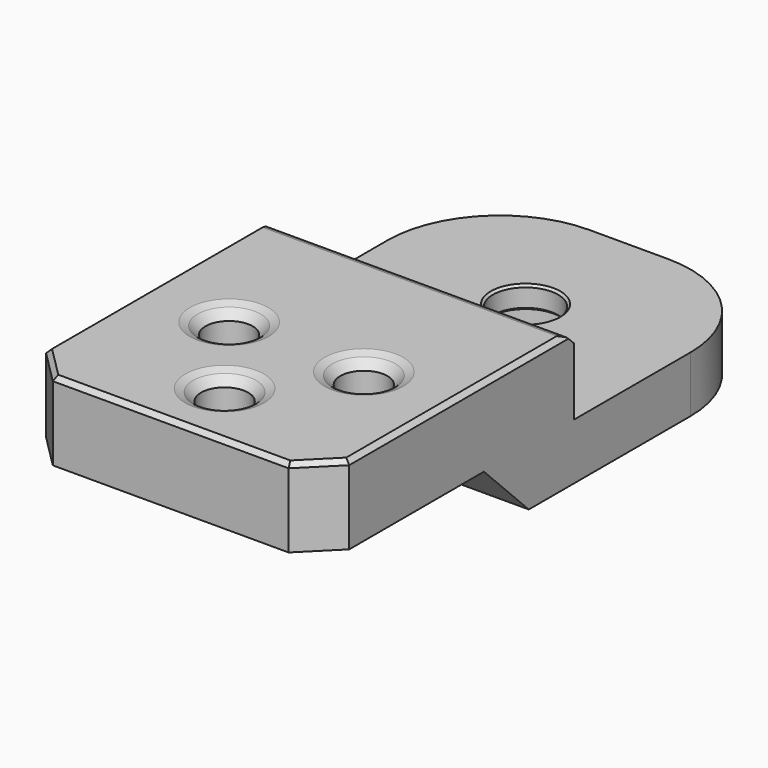
from build123d import *

# Parameters (mm, degrees)
PAD024_DEPTH    = 13.5
SKETCH067_R     = 2.9
POCKET045_DEPTH = 5.001
SKETCH068_R     = 5.5
POCKET046_DEPTH = 3
SKETCH069_R     = 2.1
POCKET047_DEPTH = 7.001
CHAMFER023_SIZE = 4.99
FILLET014_R     = 10
CHAMFER024_SIZE = 3
CHAMFER025_SIZE = 0.2
CHAMFER026_SIZE = 1
CHAMFER027_SIZE = 1
CHAMFER028_SIZE = 0.4


with BuildPart() as part:
    # Sketch066 → Pad024 (new body, symmetric)
    with BuildSketch(Plane.YZ):
        Polygon((23, 0), (0, 0), (0, 7), (-28, 7), (-28, 0), (-10, 0), (-10, -5), (23, -5), align=None)
    extrude(amount=PAD024_DEPTH, both=True)

    # Sketch067 → Pocket045 (cut, through all)
    with BuildSketch(Plane.XY):
        with Locations((0, 11.5)):
            Circle(SKETCH067_R)
    extrude(amount=-POCKET045_DEPTH, mode=Mode.SUBTRACT)

    # Sketch068 (on Face7 of Pocket045) → Pocket046 (cut)
    with BuildSketch(Plane(origin=(0, 0, -5), x_dir=(1, 0, 0), z_dir=(0, 0, -1))):
        with Locations((0, -11.5)):
            Circle(SKETCH068_R)
    extrude(amount=-POCKET046_DEPTH, mode=Mode.SUBTRACT)

    # Sketch069 (on Face10 of Pocket046) → Pocket047 (cut, through all)
    with BuildSketch(Plane(origin=(0, 0, 0), x_dir=(1, 0, 0), z_dir=(0, 0, -1))):
        with Locations((0, 22)):
            Circle(SKETCH069_R)
        with Locations((-6, 14)):
            Circle(SKETCH069_R)
        with Locations((6, 14)):
            Circle(SKETCH069_R)
    extrude(amount=-POCKET047_DEPTH, mode=Mode.SUBTRACT)

    # Chamfer023
    chamfer023_edges = [part.edges().sort_by_distance(p)[0] for p in [
        (0, -10, -5),
    ]]
    chamfer(chamfer023_edges, length=CHAMFER023_SIZE)

    # Fillet014
    fillet014_edges = [part.edges().sort_by_distance(p)[0] for p in [
        (13.5, 23, -2.5),
        (-13.5, 23, -2.5),
    ]]
    fillet(fillet014_edges, radius=FILLET014_R)

    # Chamfer024
    chamfer024_edges = [part.edges().sort_by_distance(p)[0] for p in [
        (13.5, -28, 3.5),
        (-13.5, -28, 3.5),
    ]]
    chamfer(chamfer024_edges, length=CHAMFER024_SIZE)

    # Chamfer025
    chamfer025_edges = [part.edges().sort_by_distance(p)[0] for p in [
        (-2.9, 11.5, 0),
        (-2.9, 11.5, -2),
        (-5.5, 11.5, -5),
    ]]
    chamfer(chamfer025_edges, length=CHAMFER025_SIZE)

    # Chamfer026
    chamfer026_edges = [part.edges().sort_by_distance(p)[0] for p in [
        (3.9, -14, 0),
        (3.9, -14, 7),
        (-2.1, -22, 7),
        (-2.1, -22, 0),
        (-8.1, -14, 0),
        (-8.1, -14, 7),
    ]]
    chamfer(chamfer026_edges, length=CHAMFER026_SIZE)

    # Chamfer027
    chamfer027_edges = [part.edges().sort_by_distance(p)[0] for p in [
        (0, 0, 7),
    ]]
    chamfer(chamfer027_edges, length=CHAMFER027_SIZE)

    # Chamfer028
    chamfer028_edges = [part.edges().sort_by_distance(p)[0] for p in [
        (-13.5, -13, 7),
        (0, -1, 7),
        (-12, -26.5, 7),
        (13.5, -13, 7),
        (0, -28, 7),
        (12, -26.5, 7),
        (2.9, -14, 7),
        (-3.1, -22, 7),
        (-9.1, -14, 7),
    ]]
    chamfer(chamfer028_edges, length=CHAMFER028_SIZE)


with BuildPart() as part_1:
    # Body013 placement: moved
    add(part.part.moved(Location((53, -110, -3.7))))


solid = part_1.part
